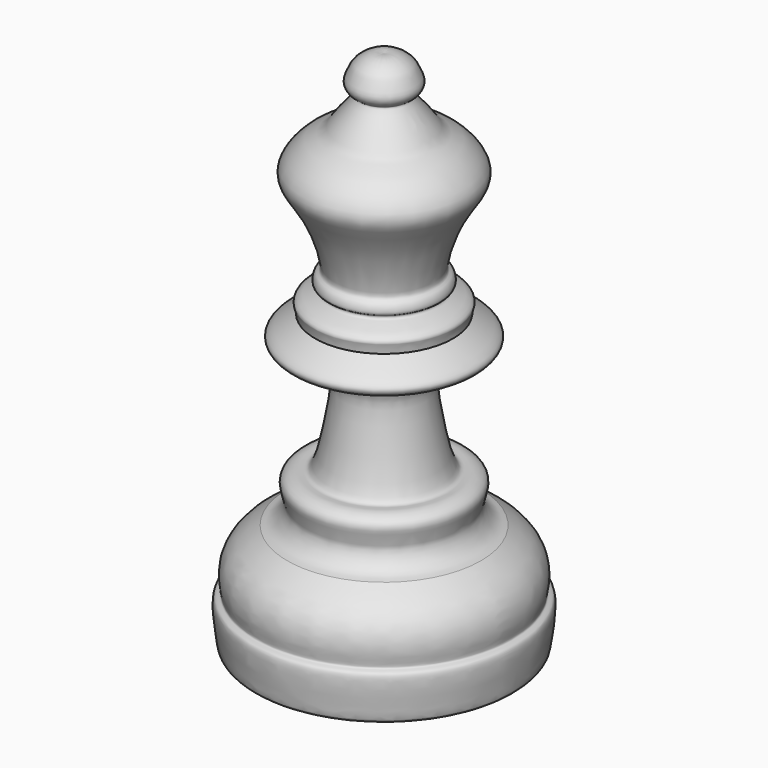
from build123d import *


with BuildPart() as f1:
    # F0 (on Front) → F1 (revolve)
    with BuildSketch(Plane.XZ):
        with BuildLine():
            Line((0, 25.1207202673), (0, 0))
            Line((0, 0), (0, -33.1720225513))
            add(Edge.make_bspline(
                [(10.4734636843, -19.8126528412), (11.2130109939, -20.2937525781), (12.6382419996, -21.2209120078), (13.9646484604, -23.1014940238), (14.0334738145, -25.22887958), (13.6104182576, -26.4340043973), (14.8494713546, -26.2766217408), (14.1137488074, -30.4349668803), (14.1281793585, -32.1081355545), (6.1405916577, -32.7096207477), (0, -33.1720225513)],
                knots=[0, 0, 0, 0, 0.1231712018, 0.2373714482, 0.3497225628, 0.4237081948, 0.4818868529, 0.6296946376, 0.7153215584, 1, 1, 1, 1], degree=3))
            add(Edge.make_bspline(
                [(7.4537490916, 0.3717169041), (8.1919399253, -0.1024722263), (9.4059570506, -0.8824717147), (10.3851953102, -1.8449595567), (9.0405996739, -3.2270503839), (3.6068012326, -3.3472328318), (5.0835590918, -4.6958204225), (4.2850278738, -5.6613494427), (4.9838518051, -9.5580017817), (5.9761803343, -15.0025336414), (7.4470581231, -14.3607441721), (8.8675823833, -15.0505912495), (8.8377595141, -16.2256807305), (8.0940156956, -17.8043179966), (9.3643807219, -19.5653037127), (10.139761737, -19.7382301978), (10.4734636843, -19.8126528412)],
                knots=[9.3979e-05, 9.3979e-05, 9.3979e-05, 9.3979e-05, 0.0821834442, 0.1351400764, 0.2013263415, 0.3125951275, 0.3615449554, 0.4123930908, 0.5198763579, 0.6371496659, 0.6905454366, 0.7516447569, 0.8047333406, 0.8722999029, 0.9450415083, 1, 1, 1, 1], degree=3))
            add(Edge.make_bspline(
                [(0, 25.1207202673), (0.374474962, 25.1724081159), (1.1932167041, 25.2854170045), (2.7051767927, 24.3685514184), (3.1819253674, 23.3069787762), (3.6183222642, 22.259051648), (2.8460706349, 21.4199316853), (2.2894564623, 21.2763159919), (4.4050127382, 19.0644706473), (5.1656937835, 17.5642642612), (6.7353755302, 17.1752448787), (9.0483598064, 14.8917945439), (9.0920263597, 12.8220586345), (6.7074103334, 10.2585023371), (4.9250234249, 4.4762816584), (5.9083491254, 4.4108407702), (6.2348993129, 3.2267250554), (5.54999561, 3.1233503852), (5.5197810695, 2.581018355), (6.8873208199, 2.3583850286), (7.8099795514, 1.5715124201), (7.5130030285, 1.0800381092), (7.4665288678, 0.6125634646), (7.4537490924, 0.3717169044)],
                knots=[0, 0, 0, 0, 0.044259118, 0.0967669165, 0.1412258274, 0.1828008403, 0.2239702237, 0.2458653182, 0.312758582, 0.3676923259, 0.4177174534, 0.4895150161, 0.5432396813, 0.6226609174, 0.7175830042, 0.7485473439, 0.7880775429, 0.8171886804, 0.839738085, 0.8866783861, 0.929125083, 0.9585230702, 0.9860973057, 0.9860973057, 0.9860973057, 0.9860973057], degree=3))
        make_face()
    revolve(axis=Axis((0, 0, -16.5860112756), (0, 0, -1)))


solid = f1.part
